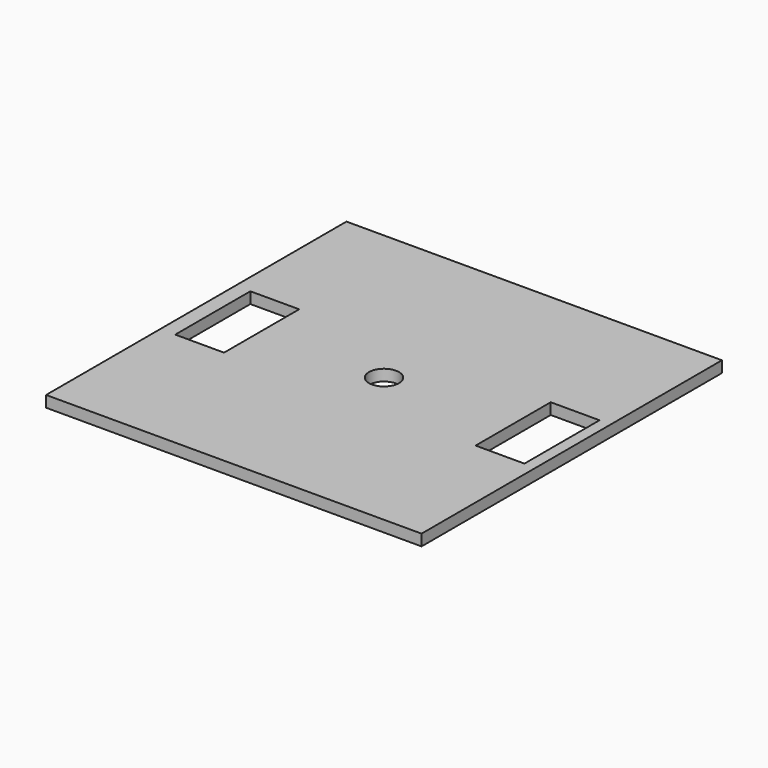
from build123d import *

# Parameters (mm, degrees)
BOX002_W       = 13
BOX002_H       = 25
BOX002_DEPTH   = 3
BOX001_W       = 13
BOX001_H       = 25
BOX001_DEPTH   = 3
CYLINDER_R     = 4
CYLINDER_DEPTH = 3
BOX_W          = 100
BOX_H          = 100
BOX_DEPTH      = 3


with BuildPart() as cube002:
    # Box002 → Box002 (new body)
    with BuildSketch(Plane(origin=(-46, -12, 0), x_dir=(1, 0, 0), z_dir=(0, 0, 1))):
        with Locations((6.5, 12.5)):
            Rectangle(BOX002_W, BOX002_H)
    extrude(amount=BOX002_DEPTH)


with BuildPart() as cube001:
    # Box001 → Box001 (new body)
    with BuildSketch(Plane(origin=(34, -12, 0), x_dir=(1, 0, 0), z_dir=(0, 0, 1))):
        with Locations((6.5, 12.5)):
            Rectangle(BOX001_W, BOX001_H)
    extrude(amount=BOX001_DEPTH)


with BuildPart() as cylinder:
    # Cylinder → Cylinder (new body)
    with BuildSketch(Plane.XY):
        Circle(CYLINDER_R)
    extrude(amount=CYLINDER_DEPTH)


with BuildPart() as cut002:
    # Box → Box (new body)
    with BuildSketch(Plane(origin=(-50, -50, 0), x_dir=(1, 0, 0), z_dir=(0, 0, 1))):
        with Locations((50, 50)):
            Rectangle(BOX_W, BOX_H)
    extrude(amount=BOX_DEPTH)

    # Cut: cut Cylinder
    add(cylinder.part, mode=Mode.SUBTRACT)

    # Cut001: cut Cube001
    add(cube001.part, mode=Mode.SUBTRACT)

    # Cut002: cut Cube002
    add(cube002.part, mode=Mode.SUBTRACT)


solid = cut002.part
